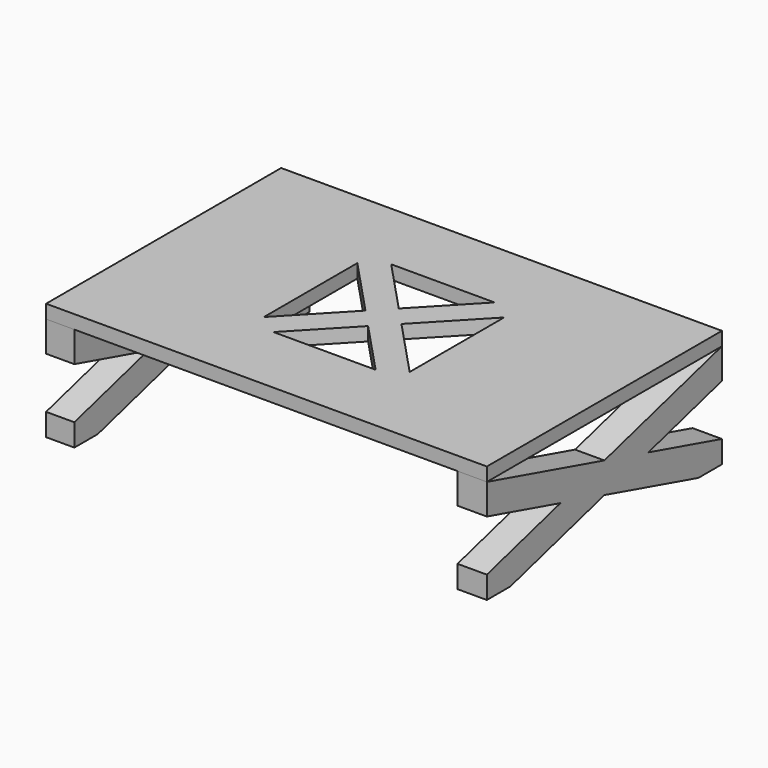
from build123d import *

# Parameters (mm, degrees)
F0_W     = 1500
F0_H     = 400
F1_DEPTH = 1000
F3_DEPTH = 1500.001
F5_W     = 1303.9535284042
F5_H     = 357.2461120359
F6_DEPTH = 1000.001
F8_DEPTH = 400.001


with BuildPart() as f1:
    # F0 (on Front) → F1 (new body)
    with BuildSketch(Plane.XZ):
        with Locations((-18.3606576174, -145.8811463788)):
            Rectangle(F0_W, F0_H)
    extrude(amount=F1_DEPTH)

    # F2 (on face) → F3 (cut, through all)
    with BuildSketch(Plane.YZ.offset(731.6393423826)):
        Polygon((-1000, 7.905196356), (-500, -130.9836925329), (0, 7.905196356), align=None)
        Polygon((-500, -234.7700352677), (-900, -345.8811463788), (-100, -345.8811463788), align=None)
        Polygon((0, -95.8811463788), (-313.1845830773, -182.8768639003), (0, -269.8725814218), align=None)
        Polygon((-1000, -269.8725814218), (-686.8154169227, -182.8768639003), (-1000, -95.8811463788), align=None)
    extrude(amount=-F3_DEPTH, mode=Mode.SUBTRACT)

    # F5 (on face) → F6 (cut, through all)
    with BuildSketch(Plane(origin=(0, 0, 0), x_dir=(-1, 0, 0), z_dir=(0, 1, 0))):
        with Locations((20.1920866966, -170.717859662)):
            Rectangle(F5_W, F5_H)
    extrude(amount=-F6_DEPTH, mode=Mode.SUBTRACT)

    # F7 (on face) → F8 (cut, through all)
    with BuildSketch(Plane.XY.offset(54.1188536212)):
        Polygon((231.6393423826, -703.3171292919), (231.6393423826, -301.4968633652), (41.9458825629, -501.2107406615), align=None)
        Polygon((153.0627522819, -750), (-19.6146414143, -566.0231540339), (-194.3606576174, -750), align=None)
        Polygon((-268.3606576174, -698.5031366348), (-80.7052512791, -500.9349714958), (-268.3606576174, -301), align=None)
        Polygon((-19.144727302, -436.1225581235), (157.6393423826, -250), (-193.8360482454, -250), align=None)
    extrude(amount=-F8_DEPTH, mode=Mode.SUBTRACT)


solid = f1.part
